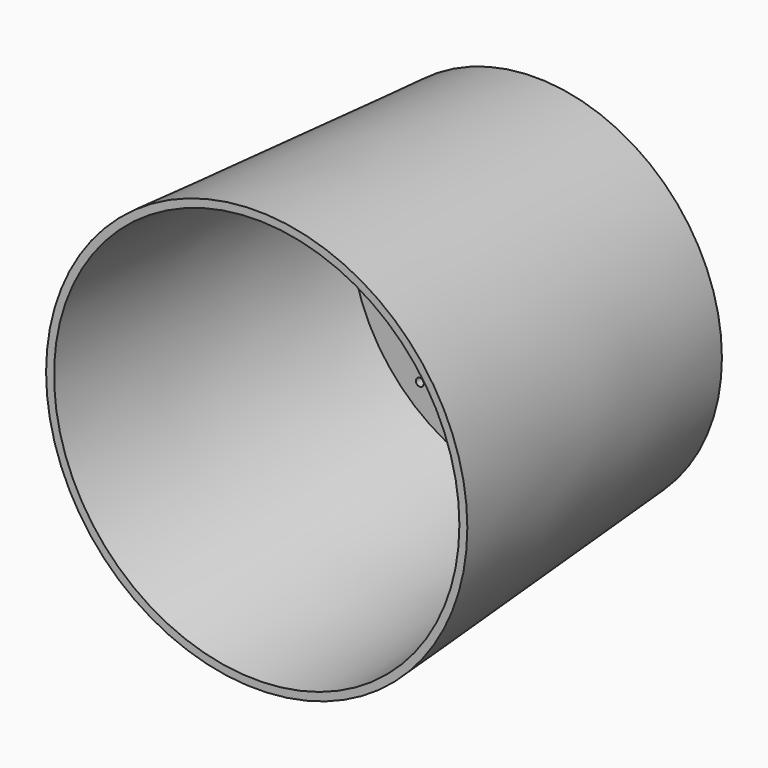
from build123d import *

# Parameters (mm, degrees)
F0_R     = 117.5
F1_DEPTH = 220
F1_TAPER = -4
F2_T     = -5
F3_D     = 5
F3_DEPTH = 200
F3_TIP   = 1.5021515476


with BuildPart() as f1:
    # F0 (on Front) → F1 (new body)
    with BuildSketch(Plane.XZ):
        Circle(F0_R)
    extrude(amount=F1_DEPTH, taper=F1_TAPER)

    # F2
    f2_openings = [f1.faces().sort_by_distance(p)[0] for p in [
        (0, -220, 0),
    ]]
    offset(amount=F2_T, openings=f2_openings, kind=Kind.INTERSECTION)

    # F3
    with Locations(Plane(origin=(0, 0, 0), x_dir=(1, 0, 0), z_dir=(0, 1, 0))):
        with Locations((9.2098470777, -6.3473079354), (-8.0020800233, 7.90218357), (9.2098470777, 7.90218357), (0.3570861008, 32.7808782458), (18.7991485, 18.2122346014), (28.6735072732, 0), (18.7991485, -16.3738597184), (0.3570861008, -30.838817358), (-16.0174295306, -13.5970693082), (-28.4521393478, -24.2303218693), (-33.0149792135, 0), (-19.9558455497, 18.2122346014), (28.6735072732, 32.7808782458), (43.748550117, 20.8710134029), (53.2127507031, 0), (43.748550117, -21.4388202876), (28.6735072732, -28.6175906658), (28.6735072732, -48.8199926913), (0.3570861008, -56.4701706171), (-22.1440792084, -53.3896423876), (-46.6648377478, -43.2039052248), (-50.3848642111, -21.4388202876), (-54.3274022639, -3.6370723974), (-46.6648377478, 21.4596614242), (-33.0149792135, 32.7808782458), (-11.2309148535, 48.322789371), (18.7991485, 51.032319665), (-46.6648377478, 51.032319665), (-56.4857274294, 60.8595944941), (-69.0967813134, 72.2940042615), (43.748550117, 41.3127802312), (70.3815743327, 30.1224850118), (75.1331150532, 0), (70.3650861979, -34.0410172939), (43.748550117, -43.2039052248), (53.2127507031, -53.3896423876), (38.2187478244, -74.4572579861), (0.3570861008, -74.4572579861), (-35.8369350433, -74.4572579861), (-66.4791688323, -62.4554567039), (-74.753895402, -40.3432734311), (-74.753895402, -3.6370723974), (-74.753895402, 29.8503562808), (-33.0149792135, 72.2940042615), (-46.6648377478, 91.0002738237), (-17.2949098051, 96.9403386116), (0, 72.2940042615), (18.7991485, 96.9403386116), (38.2187478244, 72.2940042615), (53.2127507031, 93.0623114109), (75.8273825049, 71.850605309), (63.6254251003, 60.8595944941), (53.2127507031, 51.032319665), (88.8997167349, 51.032319665), (98.1507152319, 18.2122346014), (96.4434146881, -15.8068593591), (88.8997167349, -43.2039052248), (75.6580084562, -78.9676755667), (63.6254251003, -66.5364265442), (43.748550117, -92.5594046712), (22.1365932375, -100.0308543444), (-8.0020800233, -101.5365570784), (-41.1964207888, -92.5594046712), (-78.2781466842, -74.4572579861), (-96.2497368455, -43.2039052248), (-102.3866385221, -6.3473079354), (-96.2497368455, 27.1397344768)):
            Hole(F3_D / 2, depth=F3_DEPTH)
            with Locations((0, 0, -(F3_DEPTH + F3_TIP / 2))):  # 118° drill point
                Cone(0, F3_D / 2, F3_TIP, mode=Mode.SUBTRACT)


solid = f1.part
